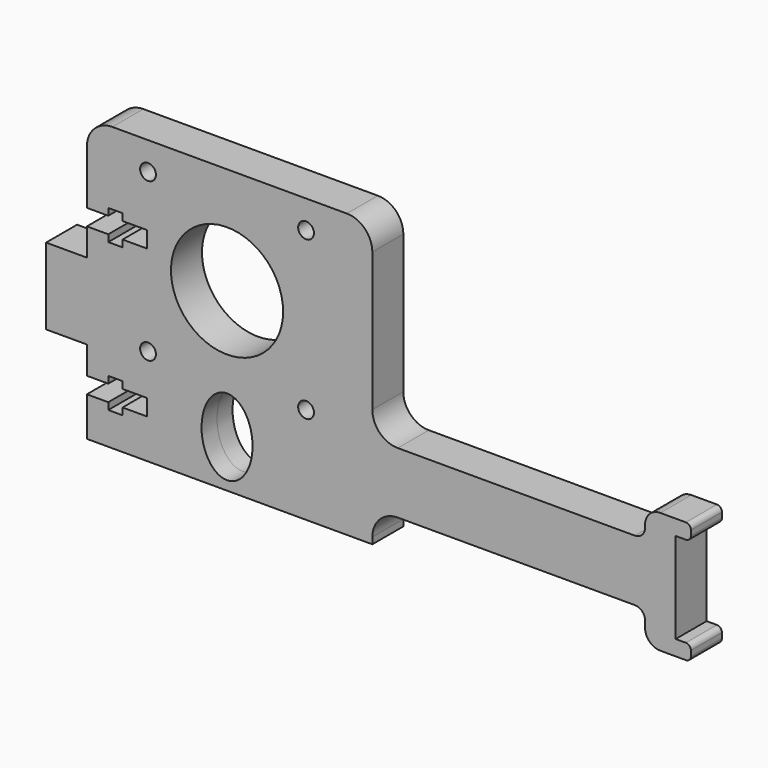
from build123d import *

# Parameters (mm, degrees)
F0_R     = 1.55
F0_R_2   = 11
F1_DEPTH = 3.8


with BuildPart() as f1:
    # F0 (on Front) → F1 (new body, symmetric)
    with BuildSketch(Plane.XZ):
        with BuildLine():
            Line((0, 7.7), (0, 0))
            Line((0, 0), (56, 0))
            Line((56, 0), (56, 1.25))
            ThreePointArc((56, 1.25), (57.464466, 4.785534), (61, 6.25))
            Line((61, 6.25), (107.5, 6.25))
            ThreePointArc((107.5, 6.25), (108.914214, 5.664214), (109.5, 4.25))
            Line((109.5, 4.25), (109.5, 3))
            ThreePointArc((109.5, 3), (110.37868, 0.87868), (112.5, 0))
            Line((112.5, 0), (117.5, 0))
            ThreePointArc((117.5, 0), (118.207107, 0.292893), (118.5, 1))
            Line((118.5, 1), (118.5, 2))
            ThreePointArc((118.5, 2), (118.207107, 2.707107), (117.5, 3))
            Line((117.5, 3), (115.5, 3))
            Line((115.5, 3), (115.5, 20.8))
            Line((115.5, 20.8), (117.5, 20.8))
            ThreePointArc((117.5, 20.8), (118.207107, 21.092893), (118.5, 21.8))
            Line((118.5, 21.8), (118.5, 22.8))
            ThreePointArc((118.5, 22.8), (118.207107, 23.507107), (117.5, 23.8))
            Line((117.5, 23.8), (112.5, 23.8))
            ThreePointArc((112.5, 23.8), (110.37868, 22.92132), (109.5, 20.8))
            Line((109.5, 20.8), (109.5, 20.25))
            ThreePointArc((109.5, 20.25), (108.914214, 18.835786), (107.5, 18.25))
            Line((107.5, 18.25), (61, 18.25))
            ThreePointArc((61, 18.25), (57.464466, 19.714466), (56, 23.25))
            Line((56, 23.25), (56, 50.5))
            ThreePointArc((56, 50.5), (54.535534, 54.035534), (51, 55.5))
            Line((51, 55.5), (5, 55.5))
            ThreePointArc((5, 55.5), (1.464466, 54.035534), (0, 50.5))
            Line((0, 50.5), (0, 39.9))
            Line((0, 39.9), (4.2, 39.9))
            Line((4.2, 39.9), (4.2, 41.25))
            Line((4.2, 41.25), (7, 41.25))
            Line((7, 41.25), (7, 39.9))
            Line((7, 39.9), (11.8, 39.9))
            Line((11.8, 39.9), (11.8, 38.3))
            Line((11.8, 38.3), (11.8, 36.7))
            Line((11.8, 36.7), (7, 36.7))
            Line((7, 36.7), (7, 35.35))
            Line((7, 35.35), (4.2, 35.35))
            Line((4.2, 35.35), (4.2, 36.7))
            Line((4.2, 36.7), (0, 36.7))
            Line((0, 36.7), (0, 31.3))
            Line((0, 31.3), (-8, 31.3))
            Line((-8, 31.3), (-8, 16.3))
            Line((-8, 16.3), (0, 16.3))
            Line((0, 16.3), (0, 10.9))
            Line((0, 10.9), (4.2, 10.9))
            Line((4.2, 10.9), (4.2, 12.25))
            Line((4.2, 12.25), (7, 12.25))
            Line((7, 12.25), (7, 10.9))
            Line((7, 10.9), (11.8, 10.9))
            Line((11.8, 10.9), (11.8, 9.3))
            Line((11.8, 9.3), (11.8, 7.7))
            Line((11.8, 7.7), (7, 7.7))
            Line((7, 7.7), (7, 6.35))
            Line((7, 6.35), (4.2, 6.35))
            Line((4.2, 6.35), (4.2, 7.7))
            Line((4.2, 7.7), (0, 7.7))
        make_face()
        with BuildLine():
            add(Edge.make_bspline(
                [(27.5, 16.8), (18.839746, 16.8), (23.169873, 5.55), (27.5, -5.7), (31.830127, 5.55), (36.160254, 16.8), (27.5, 16.8)],
                knots=[0, 0, 0, 2.094395, 2.094395, 4.18879, 4.18879, 6.283185, 6.283185, 6.283185], degree=2, weights=[1, 0.5, 1, 0.5, 1, 0.5, 1]))
        make_face(mode=Mode.SUBTRACT)
        with Locations((12, 19)):
            Circle(F0_R, mode=Mode.SUBTRACT)
        with Locations((43, 19)):
            Circle(F0_R, mode=Mode.SUBTRACT)
        with Locations((27.5, 34.5)):
            Circle(F0_R_2, mode=Mode.SUBTRACT)
        with Locations((12, 50)):
            Circle(F0_R, mode=Mode.SUBTRACT)
        with Locations((43, 50)):
            Circle(F0_R, mode=Mode.SUBTRACT)
    extrude(amount=F1_DEPTH, both=True)


solid = f1.part
